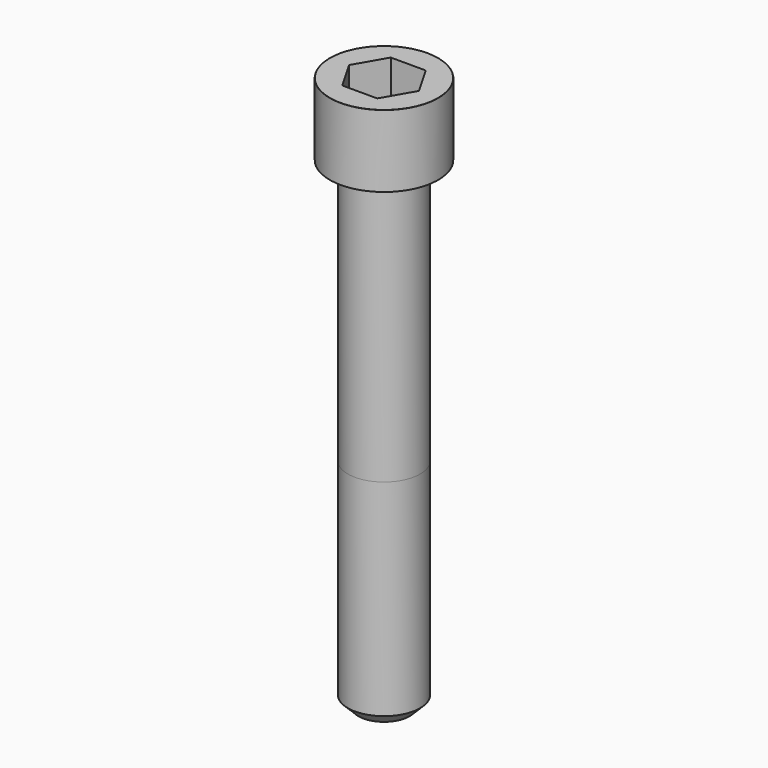
from build123d import *

# Parameters (mm, degrees)
POCKET_DEPTH = 10.07


with BuildPart() as part:
    # Sketch → Revolve (revolve)
    with BuildSketch(Plane.YZ):
        with BuildLine():
            Line((5.999, 0), (9, 0))
            Line((9, 0), (9, 11.97229))
            ThreePointArc((9, 11.97229), (8.991884, 11.991884), (8.97229, 12))
            Line((8.97229, 12), (0, 12))
            Line((0, -80), (0, 12))
            Line((4.25, -80), (0, -80))
            Line((6, -78.25), (4.25, -80))
            Line((6, -44), (6, -78.25))
            Line((5.999, 0), (6, -44))
        make_face()
    revolve(axis=Axis((0, 0, 0), (0, 0, 1)))

    # Sketch001 → Pocket (cut)
    with BuildSketch(Plane.XY.offset(12)):
        Polygon((5.813917, 0), (2.906959, 5.035), (-2.906959, 5.035), (-5.813917, 0), (-2.906959, -5.035), (2.906959, -5.035), align=None)
    extrude(amount=-POCKET_DEPTH, mode=Mode.SUBTRACT)


solid = part.part
